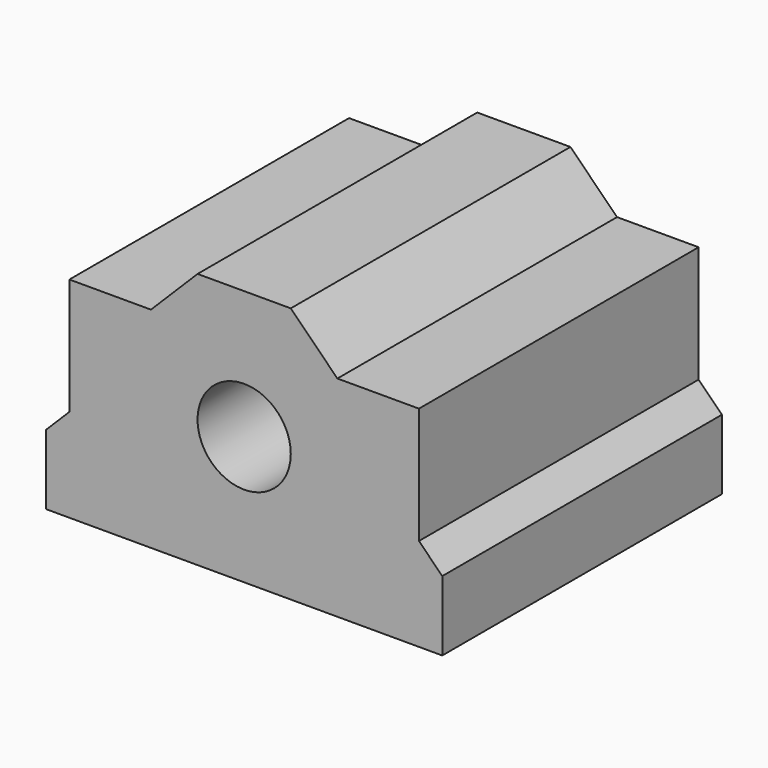
from build123d import *

# Parameters (mm, degrees)
SKETCH_R     = 4
PAD_DEPTH    = 30
SKETCH001_R  = 2
POCKET_DEPTH = 5


with BuildPart() as part:
    # Sketch → Pad (new body)
    with BuildSketch(Plane.XZ):
        Polygon((-17, -11), (-17, -5), (-15, -3), (-15, 7), (-8, 7), (-4, 11), (4, 11), (8, 7), (15, 7), (15, -3), (17, -5), (17, -11), align=None)
        Circle(SKETCH_R, mode=Mode.SUBTRACT)
    extrude(amount=PAD_DEPTH)

    # Sketch001 (on Face12 of Pad) → Pocket (cut)
    with BuildSketch(Plane(origin=(0, 0, -11), x_dir=(1, 0, 0), z_dir=(0, 0, -1))):
        with Locations((-12, 24)):
            Circle(SKETCH001_R)
        with Locations((12, 24)):
            Circle(SKETCH001_R)
        with Locations((-12, 6)):
            Circle(SKETCH001_R)
        with Locations((12, 6)):
            Circle(SKETCH001_R)
    extrude(amount=-POCKET_DEPTH, mode=Mode.SUBTRACT)


solid = part.part
